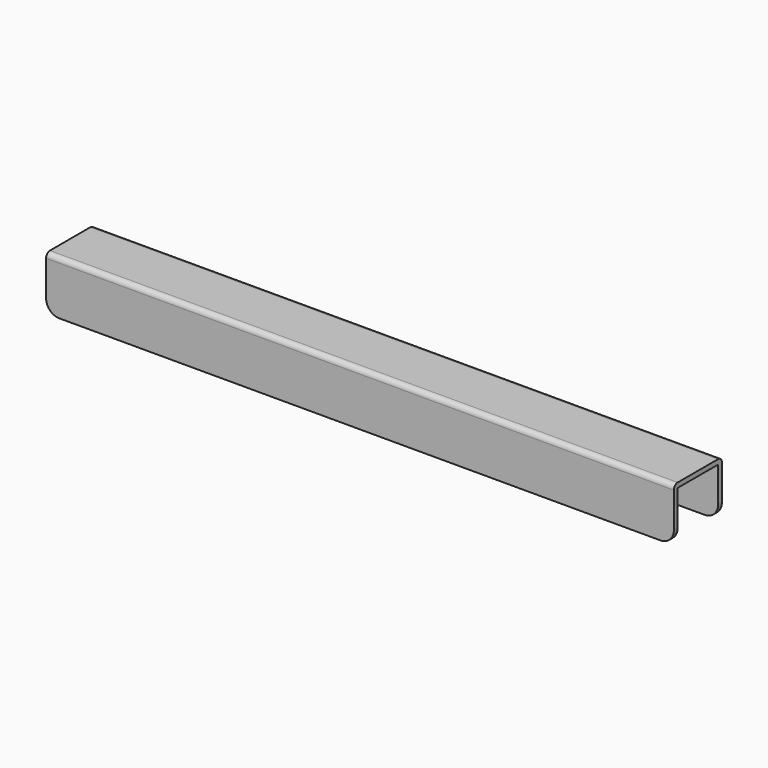
from build123d import *

# Parameters (mm, degrees)
F0_W     = 298.45
F0_H     = 28.575
F1_DEPTH = 2.286
F2_W     = 298.45
F2_H     = 2.286
F3_DEPTH = 23.114
F4_R     = 2.286
F5_R     = 6.35
F6_R     = 6.35
F7_R     = 6.35


with BuildPart() as f1:
    # F0 (on Top) → F1 (new body)
    with BuildSketch(Plane.XY):
        Rectangle(F0_W, F0_H)
    extrude(amount=F1_DEPTH)

    # F2 (on face) → F3 (join)
    with BuildSketch(Plane(origin=(0, 0, 0), x_dir=(1, 0, 0), z_dir=(0, 0, -1))):
        with Locations((0, 13.1445)):
            Rectangle(F2_W, F2_H)
        with Locations((0, -13.1445)):
            Rectangle(F2_W, F2_H)
    extrude(amount=F3_DEPTH)

    # F4
    f4_edges = [f1.edges().sort_by_distance(p)[0] for p in [
        (0, -14.2875, 2.286),
        (0, 14.2875, 2.286),
    ]]
    fillet(f4_edges, radius=F4_R)

    # F5
    f5_edges = [f1.edges().sort_by_distance(p)[0] for p in [
        (149.225, -13.1445, -23.114),
    ]]
    fillet(f5_edges, radius=F5_R)

    # F6
    f6_edges = [f1.edges().sort_by_distance(p)[0] for p in [
        (149.225, 13.1445, -23.114),
    ]]
    fillet(f6_edges, radius=F6_R)

    # F7
    f7_edges = [f1.edges().sort_by_distance(p)[0] for p in [
        (-149.225, -13.1445, -23.114),
        (-149.225, 13.1445, -23.114),
    ]]
    fillet(f7_edges, radius=F7_R)


solid = f1.part
